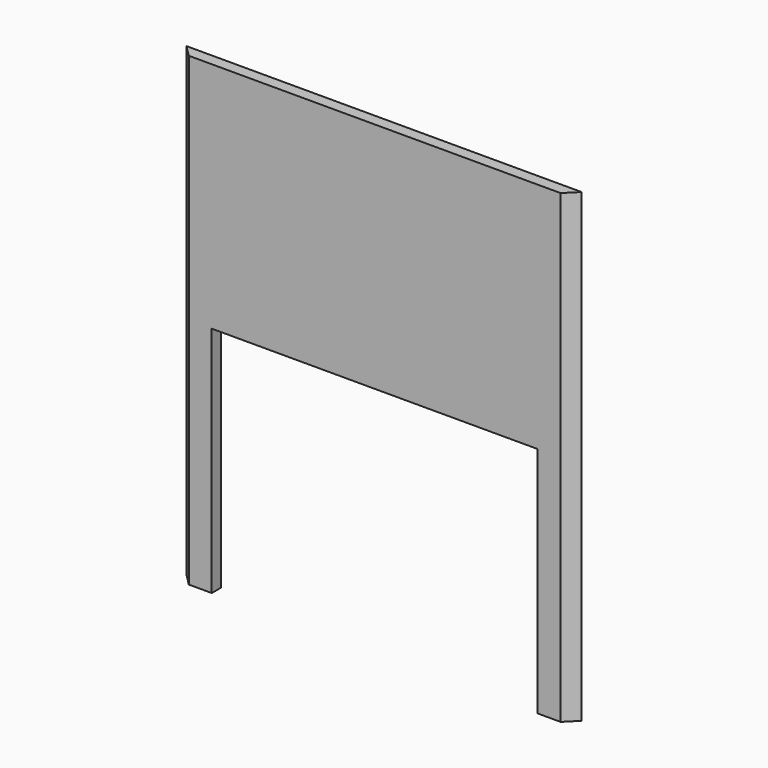
from build123d import *

# Parameters (mm, degrees)
F0_W     = 215.526138
F0_H     = 254
F1_DEPTH = 6.35
F3_DEPTH = 254.001
F5_DEPTH = 25.4


with BuildPart() as f1:
    # F0 (on Front) → F1 (new body)
    with BuildSketch(Plane.XZ):
        Rectangle(F0_W, F0_H)
    extrude(amount=F1_DEPTH)

    # F2 (on face) → F3 (cut, through all)
    with BuildSketch(Plane.XY.offset(127)):
        Polygon((-107.763069, 0), (-107.763069, -6.35), (-101.413069, -6.35), align=None)
        Polygon((107.763069, 0), (101.413069, -6.35), (107.763069, -6.35), align=None)
    extrude(amount=-F3_DEPTH, mode=Mode.SUBTRACT)

    # F4 (on face) → F5 (cut)
    with BuildSketch(Plane(origin=(0, 0, 0), x_dir=(-1, 0, 0), z_dir=(0, 1, 0))):
        Polygon((88.9, 0), (0, 0), (-88.9, 0), (-88.9, -127), (88.9, -127), align=None)
    extrude(amount=-F5_DEPTH, mode=Mode.SUBTRACT)


solid = f1.part
